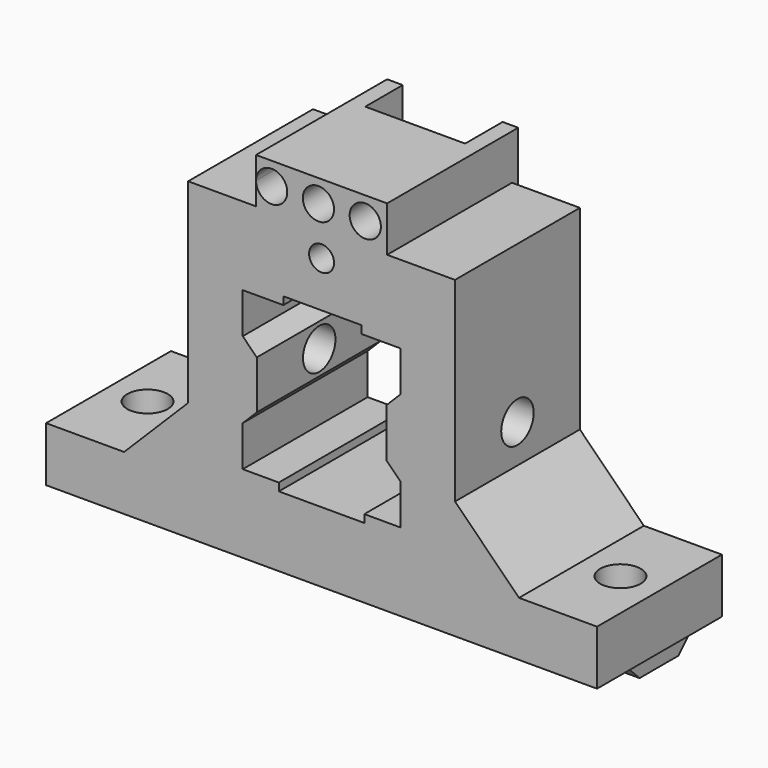
from build123d import *

# Parameters (mm, degrees)
PAD004_DEPTH           = 20
SKETCH013_R            = 2.6
POCKET008_DEPTH        = 100
POCKET009_DEPTH        = 40
PAD005_DEPTH           = 70.3
SKETCH016_R            = 2.6
POCKET010_DEPTH        = 10
SKETCH017_R            = 2.6
POCKET011_DEPTH        = 10
SKETCH018_W            = 10
SKETCH018_H            = 1
POCKET012_DEPTH        = 25
SKETCH019_W            = 16.8
SKETCH019_H            = 21
PAD006_DEPTH           = 5.8
SKETCH020_W            = 12.8
SKETCH020_H            = 6
POCKET013_DEPTH        = 5.8
SKETCH021_W            = 16.8
SKETCH021_H            = 2
PAD007_DEPTH           = 1
SKETCH022_R            = 2
POCKET014_DEPTH        = 40
LINEARPATTERN001_COUNT = 3
LINEARPATTERN001_PITCH = 6
SKETCH023_R            = 1.6
POCKET015_DEPTH        = 12


with BuildPart() as part:
    # Sketch012 → Pad004 (new body)
    with BuildSketch(Plane.XZ):
        Polygon((17.1, 10.100008), (17.1, -4.899992), (25.3, -13.099992), (35.3, -13.099992), (35.3, -20.099992), (-35.3, -20.099992), (-35.3, -13.099992), (-25.3, -13.099992), (-17.1, -4.899992), (-17.1, 10.100008), (-17.1, 20.100008), (17.1, 20.100008), align=None)
        Polygon((-10.1, 10.100008), (-10.1, 4.900008), (-8.3, 3.099992), (-8.3, -3.100008), (-10.1, -4.899992), (-10.1, -10.099992), (-5.478931, -10.099992), (-5.478931, -11.099992), (5.478931, -11.099992), (5.478931, -10.099992), (10.1, -10.099992), (10.1, -4.899992), (8.3, -3.099992), (8.3, 3.100008), (10.1, 4.900008), (10.1, 10.100008), align=None, mode=Mode.SUBTRACT)
    extrude(amount=PAD004_DEPTH)

    # Sketch013 (on Face22 of Pad004) → Pocket008 (cut)
    with BuildSketch(Plane(origin=(8.3, 0, 0), x_dir=(0, 0, -1), z_dir=(-1, 0, 0))):
        with Locations((0, 10)):
            Circle(SKETCH013_R)
    extrude(amount=-POCKET008_DEPTH, mode=Mode.SUBTRACT)

    # Sketch013 (on Face22 of Pad004) → Pocket009 (cut)
    with BuildSketch(Plane(origin=(8.3, 0, 0), x_dir=(0, 0, -1), z_dir=(-1, 0, 0))):
        with Locations((0, 10)):
            Circle(SKETCH013_R)
    extrude(amount=POCKET009_DEPTH, mode=Mode.SUBTRACT)

    # Sketch015 → Pad005 (join)
    with BuildSketch(Plane(origin=(35.15, 0, 0), x_dir=(0, 0, 1), z_dir=(1, 0, 0))):
        Polygon((-20.000008, 14.8), (-20.000008, 5), (-21.800008, 6.8), (-21.800008, 13), align=None)
    extrude(amount=-PAD005_DEPTH)

    # Sketch016 (on Face3 of Pad005) → Pocket010 (cut)
    with BuildSketch(Plane(origin=(0, 0, -13.099992), x_dir=(-1, 0, 0), z_dir=(0, 0, 1))):
        with Locations((-30.3, 10)):
            Circle(SKETCH016_R)
    extrude(amount=-POCKET010_DEPTH, mode=Mode.SUBTRACT)

    # Sketch017 (on Face12 of Pocket010) → Pocket011 (cut)
    with BuildSketch(Plane(origin=(0, 0, -13.099992), x_dir=(-1, 0, 0), z_dir=(0, 0, 1))):
        with Locations((30.3, 10)):
            Circle(SKETCH017_R)
    extrude(amount=-POCKET011_DEPTH, mode=Mode.SUBTRACT)

    # Sketch018 (on Face4 of Pocket011) → Pocket012 (cut)
    with BuildSketch(Plane(origin=(0, 0, 0), x_dir=(1, 0, 0), z_dir=(0, 1, 0))):
        with Locations((0.1, -10.600008)):
            Rectangle(SKETCH018_W, SKETCH018_H)
    extrude(amount=-POCKET012_DEPTH, mode=Mode.SUBTRACT)

    # Sketch019 (on Face6 of Pocket012) → Pad006 (join)
    with BuildSketch(Plane(origin=(0, 0, 20.100008), x_dir=(-1, 0, 0), z_dir=(0, 0, 1))):
        with Locations((0, 9.5)):
            Rectangle(SKETCH019_W, SKETCH019_H)
    extrude(amount=PAD006_DEPTH)

    # Sketch020 (on Face46 of Pad006) → Pocket013 (cut)
    with BuildSketch(Plane(origin=(0, 0, 25.900008), x_dir=(-1, 0, 0), z_dir=(0, 0, 1))):
        with Locations((0, 2)):
            Rectangle(SKETCH020_W, SKETCH020_H)
    extrude(amount=-POCKET013_DEPTH, mode=Mode.SUBTRACT)

    # Sketch021 (on Face4 of Pocket013) → Pad007 (join)
    with BuildSketch(Plane(origin=(0, 0, 0), x_dir=(1, 0, 0), z_dir=(0, 1, 0))):
        with Locations((0, -19.100008)):
            Rectangle(SKETCH021_W, SKETCH021_H)
    extrude(amount=PAD007_DEPTH)

    # Sketch022 (on Face46 of Pad007) → Pocket014 (cut)
    with BuildSketch(Plane(origin=(0, -5, 0), x_dir=(1, 0, 0), z_dir=(0, 1, 0))):
        with Locations((-6.4, -23.000008)):
            Circle(SKETCH022_R)
    pocket014 = extrude(amount=-POCKET014_DEPTH, mode=Mode.SUBTRACT)

    # LinearPattern001: Pocket014 ×3
    with Locations(*[(i * LINEARPATTERN001_PITCH, 0, 0) for i in range(1, LINEARPATTERN001_COUNT)]):
        add(pocket014, mode=Mode.SUBTRACT)

    # Sketch023 (on Face5 of LinearPattern001) → Pocket015 (cut)
    with BuildSketch(Plane.XZ.offset(20)):
        with Locations((0, 16.970566)):
            Circle(SKETCH023_R)
    extrude(amount=-POCKET015_DEPTH, mode=Mode.SUBTRACT)


solid = part.part
